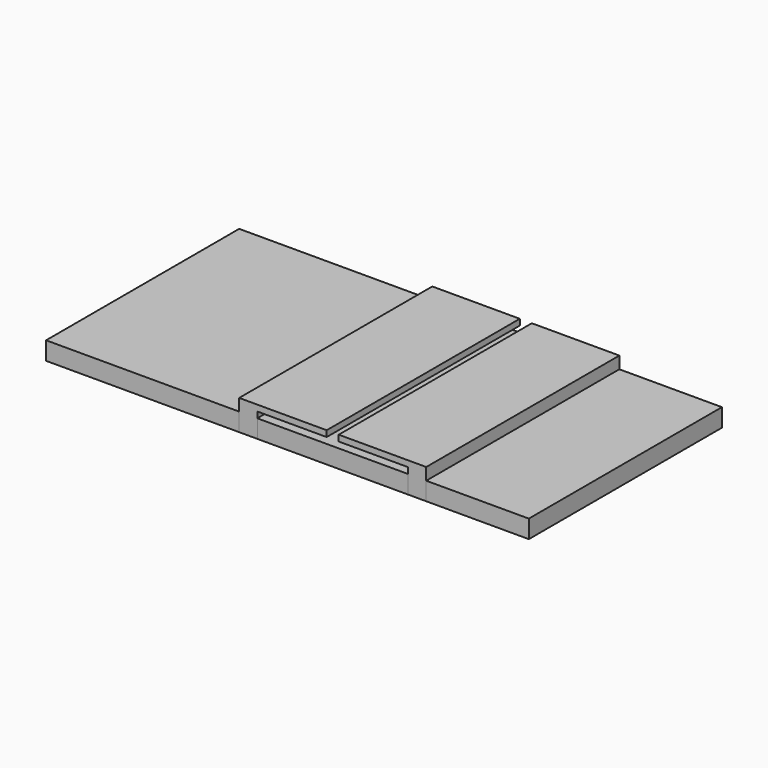
from build123d import *

# Parameters (mm, degrees)
F0_W     = 32
F0_H     = 40
F0_W_2   = 25
F0_W_3   = 17
F1_DEPTH = 3
F0_W_4   = 3
F2_DEPTH = 5
F3_W     = 40
F3_H     = 1
F4_DEPTH = 11.5
F5_W     = 40
F5_H     = 1
F6_DEPTH = 11.5


with BuildPart() as f1:
    # F0 (on Top) → F1 (new body)
    with BuildSketch(Plane.XY):
        with Locations((-20.00937, -0.105833)):
            Rectangle(F0_W, F0_H)
        with Locations((11.49063, -0.105833)):
            Rectangle(F0_W_2, F0_H)
        with Locations((35.49063, -0.105833)):
            Rectangle(F0_W_3, F0_H)
    extrude(amount=F1_DEPTH)


with BuildPart() as f2:
    # F0 (on Top) → F2 (new body)
    with BuildSketch(Plane.XY):
        with Locations((-2.50937, -0.105833)):
            Rectangle(F0_W_4, F0_H)
        with Locations((25.49063, -0.105833)):
            Rectangle(F0_W_4, F0_H)
    extrude(amount=F2_DEPTH)

    # F3 (on face) → F4 (join)
    with BuildSketch(Plane.YZ.offset(-1.00937)):
        with Locations((-0.105833, 4.5)):
            Rectangle(F3_W, F3_H)
    extrude(amount=F4_DEPTH)

    # F5 (on face) → F6 (join)
    with BuildSketch(Plane(origin=(23.99063, 0, 0), x_dir=(0, -1, 0), z_dir=(-1, 0, 0))):
        with Locations((0.105833, 4.5)):
            Rectangle(F5_W, F5_H)
    extrude(amount=F6_DEPTH)


solid = Compound([f1.part, f2.part])
